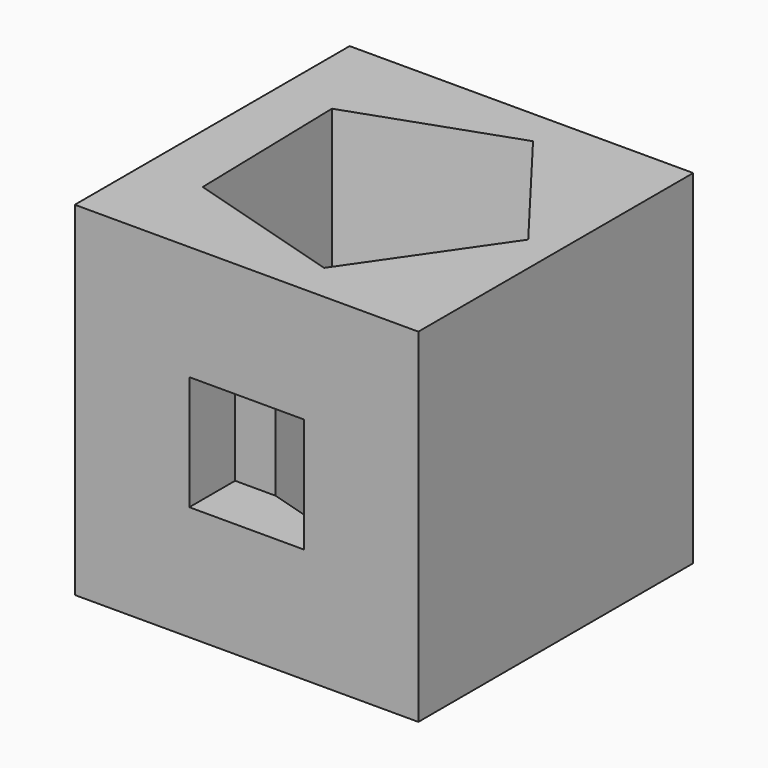
from build123d import *

# Parameters (mm, degrees)
F0_W     = 76.2
F0_H     = 76.2
F1_DEPTH = 76.2
F3_DEPTH = 76.201
F4_W     = 25.4
F4_H     = 25.4
F5_DEPTH = 12.7


with BuildPart() as f1:
    # F0 (on Top) → F1 (new body)
    with BuildSketch(Plane.XY):
        with Locations((-33.296083, 29.620429)):
            Rectangle(F0_W, F0_H)
    extrude(amount=F1_DEPTH)

    # F2 (on face) → F3 (cut, through all)
    with BuildSketch(Plane.XY.offset(76.2)):
        Polygon((-22.887098, 0), (-1.908828, 30.366746), (-24.306678, 59.702107), (-59.12758, 47.465611), (-58.250232, 10.56768), align=None)
    extrude(amount=-F3_DEPTH, mode=Mode.SUBTRACT)

    # F4 (on face) → F5 (cut)
    with BuildSketch(Plane.XZ.offset(8.479571)):
        with Locations((-33.296083, 38.1)):
            Rectangle(F4_W, F4_H)
    extrude(amount=-F5_DEPTH, mode=Mode.SUBTRACT)


solid = f1.part
